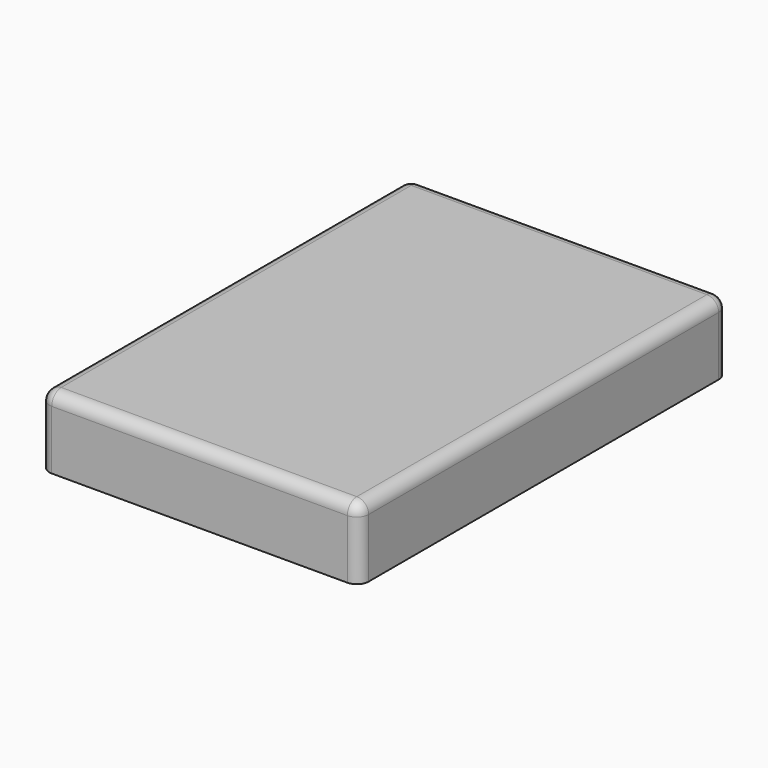
from build123d import *

# Parameters (mm, degrees)
SKETCH001_W  = 54
SKETCH001_H  = 78
PAD001_DEPTH = 12
FILLET_R     = 2
FILLET001_R  = 2
SKETCH002_R  = 2
POCKET_DEPTH = 6
FILLET002_R  = 2


with BuildPart() as part:
    # Sketch001 (on Face1 of CopyCut) → Pad001 (new body)
    with BuildSketch(Plane.XY.offset(-3)):
        with Locations((0, 47)):
            Rectangle(SKETCH001_W, SKETCH001_H)
    extrude(amount=PAD001_DEPTH)

    # Fillet
    fillet_edges = [part.edges().sort_by_distance(p)[0] for p in [
        (0, 86, 9),
    ]]
    fillet(fillet_edges, radius=FILLET_R)

    # Fillet001
    fillet001_edges = [part.edges().sort_by_distance(p)[0] for p in [
        (-27, 46, 9),
        (27, 46, 9),
    ]]
    fillet(fillet001_edges, radius=FILLET001_R)

    # Sketch002 (on Face5 of Fillet001) → Pocket (cut)
    with BuildSketch(Plane(origin=(0, 0, -3), x_dir=(1, 0, 0), z_dir=(0, 0, -1))):
        with Locations((10, -70)):
            Circle(SKETCH002_R)
        with Locations((-10, -50)):
            Circle(SKETCH002_R)
    extrude(amount=-POCKET_DEPTH, mode=Mode.SUBTRACT)

    # Fillet002
    fillet002_edges = [part.edges().sort_by_distance(p)[0] for p in [
        (0, 8, 9),
    ]]
    fillet(fillet002_edges, radius=FILLET002_R)


solid = part.part
